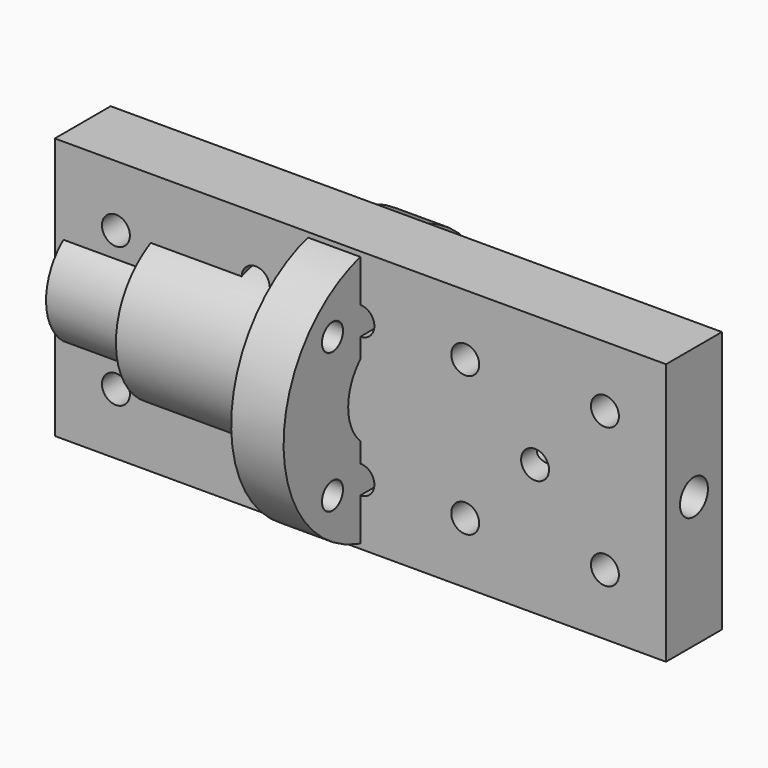
from build123d import *

# Parameters (mm, degrees)
F0_W      = 70
F0_H      = 30
F1_DEPTH  = 4
F2_R      = 6.25
F2_R_2    = 1.6
F3_DEPTH  = 8.001
F4_R      = 1.6
F5_DEPTH  = 4
F6_R      = 1.75
F7_DEPTH  = 50.0000001
F12_D     = 3
F13_D     = 13
F14_D     = 4
F14_DEPTH = 15
F14_TIP   = 1.2017212381
F17_D     = 3.2
F18_D     = 11.5
F18_DEPTH = 26
F18_TIP   = 3.4549485594


with BuildPart() as f1:
    # F0 (on Front) → F1 (new body, symmetric)
    with BuildSketch(Plane.XZ):
        Rectangle(F0_W, F0_H)
    extrude(amount=F1_DEPTH, both=True)

    # F2 (on face) → F3 (cut, through all)
    with BuildSketch(Plane.XZ.offset(4)):
        with Locations((-20, 0)):
            Circle(F2_R)
        with Locations((-28, 8)):
            Circle(F2_R_2)
        with Locations((-12, 8)):
            Circle(F2_R_2)
        with Locations((12, 8)):
            Circle(F2_R_2)
        with Locations((28, 8)):
            Circle(F2_R_2)
        with Locations((28, -8)):
            Circle(F2_R_2)
        with Locations((12, -8)):
            Circle(F2_R_2)
        with Locations((-12, -8)):
            Circle(F2_R_2)
        with Locations((-28, -8)):
            Circle(F2_R_2)
        with Locations((0, 8)):
            Circle(F2_R_2)
        with Locations((0, -8)):
            Circle(F2_R_2)
    extrude(amount=-F3_DEPTH, mode=Mode.SUBTRACT)

    # F4 (on face) → F5 (cut)
    with BuildSketch(Plane.XZ.offset(4)):
        with Locations((20, 0)):
            Circle(F4_R)
    extrude(amount=-F5_DEPTH, mode=Mode.SUBTRACT)

    # F6 (on face) → F7 (cut, up to face)
    with BuildSketch(Plane.YZ.offset(35)):
        Circle(F6_R)
    extrude(amount=-F7_DEPTH, mode=Mode.SUBTRACT)

    # F14
    with Locations(Plane.YZ.offset(35)):
        with Locations((0, 0)):
            Hole(F14_D / 2, depth=F14_DEPTH)
            with Locations((0, 0, -(F14_DEPTH + F14_TIP / 2))):  # 118° drill point
                Cone(0, F14_D / 2, F14_TIP, mode=Mode.SUBTRACT)


with BuildPart() as f10:
    # F9 (on Front) → F10 (revolve)
    with BuildSketch(Plane.XZ):
        Polygon((-24, 9), (-24, 0), (0, 0), (0, 15), (-6, 15), (-6, 9), align=None)
    revolve(axis=Axis((-12, 0, 0), (1, 0, 0)))

    # F12 (through all)
    with Locations(Plane.YZ):
        with Locations((-8, 8), (8, 8), (8, -8), (-8, -8)):
            Hole(F12_D / 2)

    # F13 (through all)
    with Locations(Plane.YZ):
        with Locations((0, 0)):
            Hole(F13_D / 2)


with BuildPart() as f16:
    # F15 (on Front) → F16 (revolve)
    with BuildSketch(Plane.XZ):
        Polygon((-34, 0), (0, 0), (0, 15), (-6, 15), (-6, 6.5), (-34, 6.5), align=None)
    revolve(axis=Axis((-17, 0, 0), (-1, 0, 0)))

    # F17 (through all)
    with Locations(Plane.YZ):
        with Locations((-8, 8), (8, 8), (8, -8), (-8, -8)):
            Hole(F17_D / 2)

    # F18
    with Locations(Plane.YZ):
        with Locations((0, 0)):
            Hole(F18_D / 2, depth=F18_DEPTH)
            with Locations((0, 0, -(F18_DEPTH + F18_TIP / 2))):  # 118° drill point
                Cone(0, F18_D / 2, F18_TIP, mode=Mode.SUBTRACT)


solid = Compound([f1.part, f10.part, f16.part])
